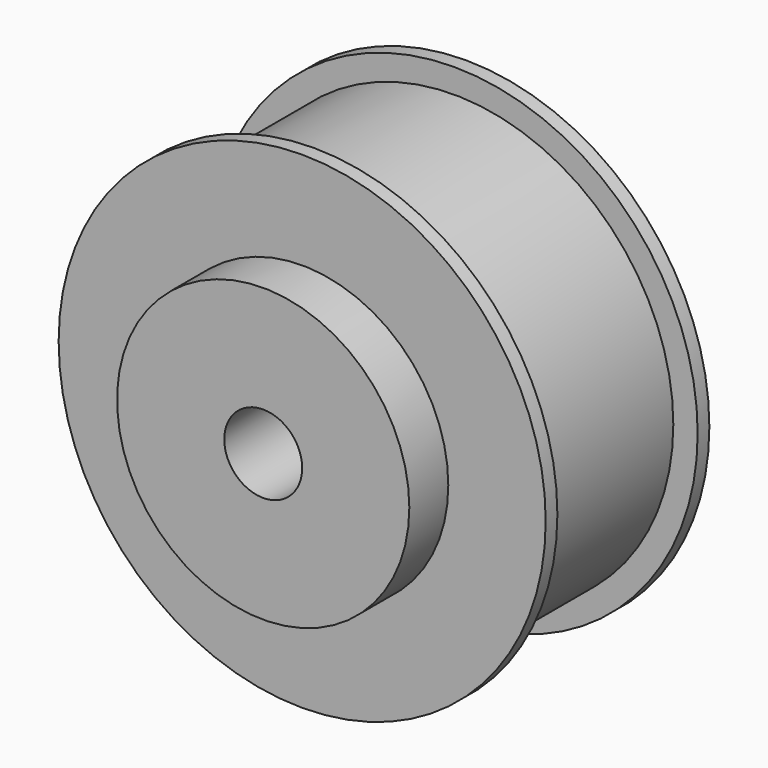
from build123d import *

# Parameters (mm, degrees)
F0_R      = 25
F1_DEPTH  = 1.5
F2_R      = 22.5
F3_DEPTH  = 18
F4_R      = 25
F5_DEPTH  = 1.5
F6_R      = 15
F7_DEPTH  = 5
F10_R     = 4
F11_DEPTH = 20


with BuildPart() as f1:
    # F0 (on Front) → F1 (new body)
    with BuildSketch(Plane.XZ):
        Circle(F0_R)
    extrude(amount=F1_DEPTH)

    # F2 (on face) → F3 (join)
    with BuildSketch(Plane.XZ.offset(1.5)):
        Circle(F2_R)
    extrude(amount=F3_DEPTH)

    # F4 (on face) → F5 (join)
    with BuildSketch(Plane.XZ.offset(19.5)):
        Circle(F4_R)
    extrude(amount=F5_DEPTH)

    # F6 (on face) → F7 (join)
    with BuildSketch(Plane.XZ.offset(21)):
        Circle(F6_R)
    extrude(amount=F7_DEPTH)

    # F8 (on Right) → F9 (revolve)
    with BuildSketch(Plane.YZ):
        Polygon((5, 0), (0, 0), (0, -8), (5, -2), align=None)
    revolve(axis=Axis((0, 10.197903, 0), (0, 1, 0)))

    # F10 (on face) → F11 (cut)
    with BuildSketch(Plane.XZ.offset(26)):
        Circle(F10_R)
    extrude(amount=-F11_DEPTH, mode=Mode.SUBTRACT)


solid = f1.part
